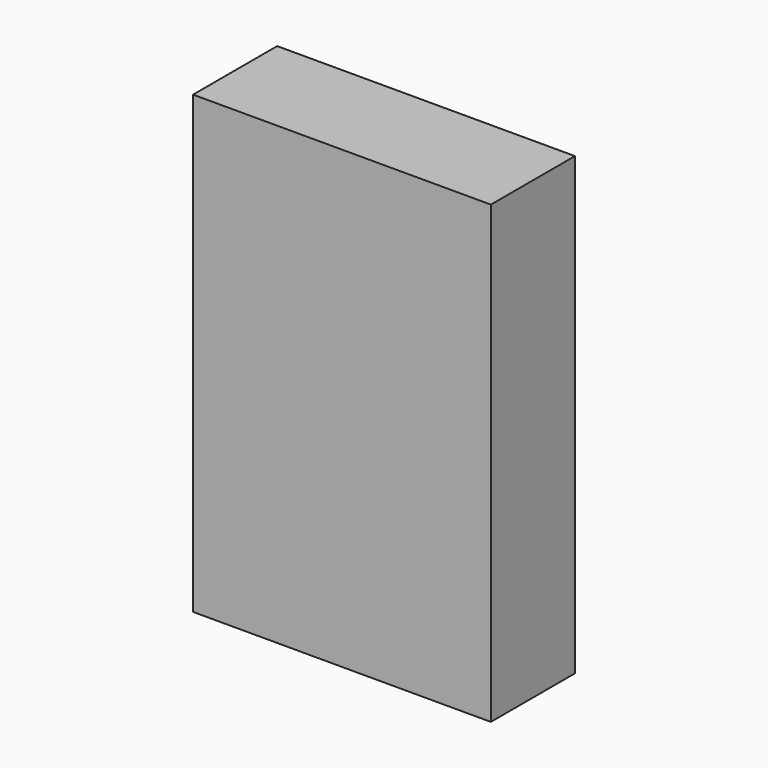
from build123d import *

# Parameters (mm, degrees)
F0_W     = 43.18
F0_H     = 25.4
F0_H_2   = 20.32
F1_DEPTH = 15.24


with BuildPart() as f1:
    # F0 (on Front) → F1 (new body)
    with BuildSketch(Plane.XZ):
        Rectangle(F0_W, F0_H)
        with Locations((0, 22.86)):
            Rectangle(F0_W, F0_H_2)
        with Locations((0, 43.18)):
            Rectangle(F0_W, F0_H_2)
    extrude(amount=F1_DEPTH)


solid = f1.part
